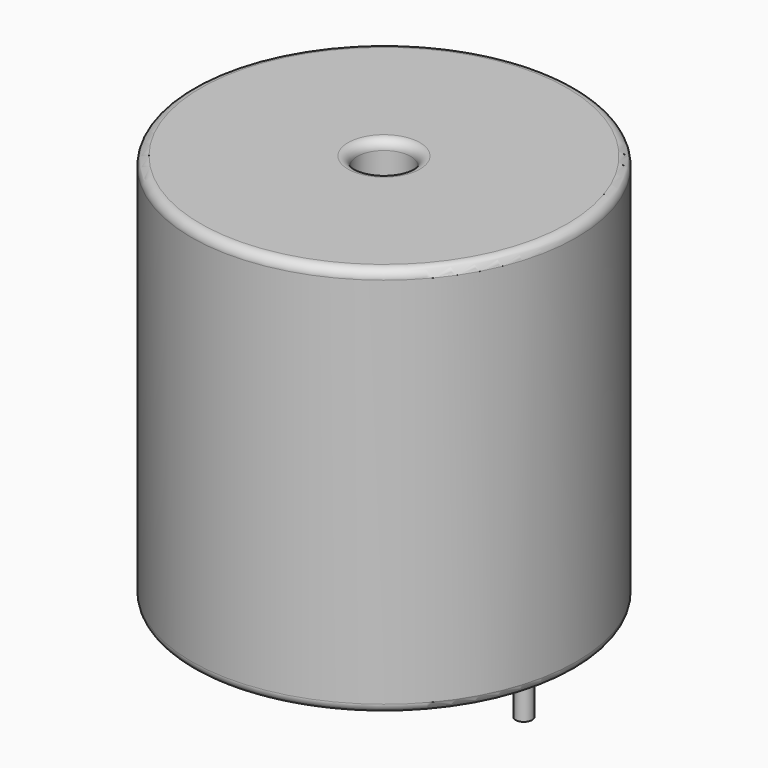
from build123d import *

# Parameters (mm, degrees)
SKETCH_R          = 10.5
SKETCH_R_2        = 1.46
PAD_DEPTH         = 21.34
FILLET_R          = 0.5
SKETCH001_R       = 0.45
PAD001_DEPTH      = 10.67
PAD001_DEPTH_BACK = 3.5


with BuildPart() as fillet_body:
    # Sketch → Pad (new body)
    with BuildSketch(Plane.XY.offset(0.1)):
        with Locations((7.62, 0)):
            Circle(SKETCH_R)
        with Locations((7.62, 0)):
            Circle(SKETCH_R_2, mode=Mode.SUBTRACT)
    extrude(amount=PAD_DEPTH)

    # Fillet
    fillet_edges = [fillet_body.edges().sort_by_distance(p)[0] for p in [
        (6.16, 0, 21.44),
        (-2.88, 0, 21.44),
        (-2.88, 0, 0.1),
    ]]
    fillet(fillet_edges, radius=FILLET_R)


with BuildPart() as obj1:
    # Sketch001 → Pad001 (new body, two sides)
    with BuildSketch(Plane.XY.offset(0.5)) as pad001_sk:
        Circle(SKETCH001_R)
        with Locations((15.24, 0)):
            Circle(SKETCH001_R)
    extrude(amount=PAD001_DEPTH)
    extrude(pad001_sk.sketch, amount=-PAD001_DEPTH_BACK)

    # obj1: union Fillet body
    add(fillet_body.part)


solid = obj1.part
